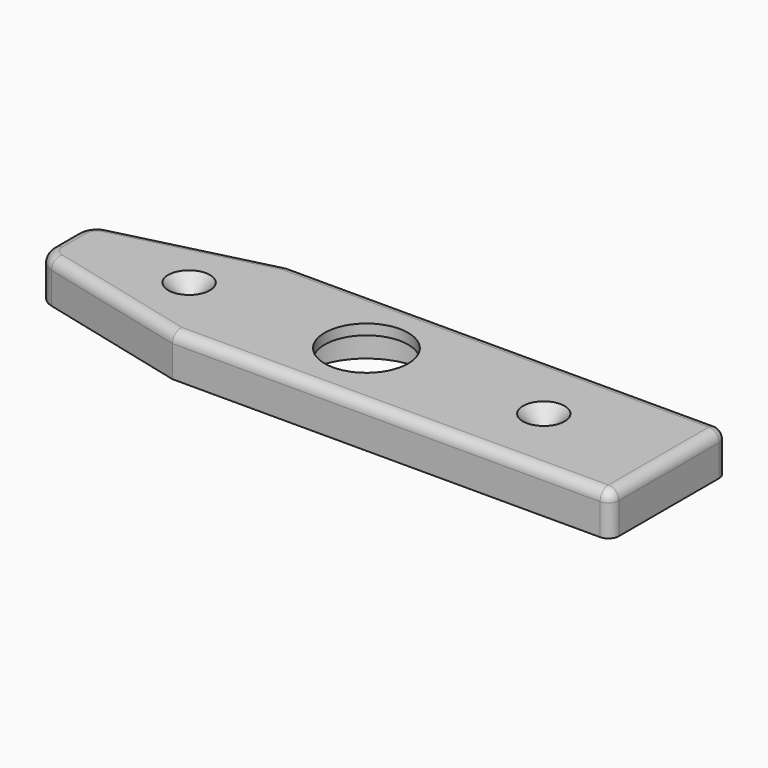
from build123d import *

# Parameters (mm, degrees)
F0_W           = 92.075
F0_H           = 22.225
F0_R           = 6.35
F1_DEPTH       = 6.35
F3_D           = 1.5875
F3_CSINK_D     = 6.35
F3_CSINK_ANGLE = 90
F6_D           = 12.7
F6_CBORE_D     = 19.05
F6_CBORE_DEPTH = 4.7625
F7_SIZE2       = 25.4
F7_SIZE        = 6.35
F8_R           = 3.175
F9_R           = 1.5875


with BuildPart() as f1:
    # F0 (on Top) → F1 (new body)
    with BuildSketch(Plane.XY):
        Rectangle(F0_W, F0_H)
        Circle(F0_R, mode=Mode.SUBTRACT)
    extrude(amount=-F1_DEPTH)

    # F3 (through all)
    with Locations(Plane.XY):
        with Locations((26.9875, 0), (-26.9875, 0)):
            CounterSinkHole(F3_D / 2, F3_CSINK_D / 2, counter_sink_angle=F3_CSINK_ANGLE)

    # F6 (through all)
    with Locations(Plane(origin=(0, 0, -6.35), x_dir=(1, 0, 0), z_dir=(0, 0, -1))):
        with Locations((0, 0)):
            CounterBoreHole(F6_D / 2, F6_CBORE_D / 2, F6_CBORE_DEPTH)

    # F7
    f7_edges = [f1.edges().sort_by_distance(p)[0] for p in [
        (-46.0375, -11.1125, -3.175),
        (-46.0375, 11.1125, -3.175),
    ]]
    f7_side = f1.faces().sort_by_distance((-46.0375, 0, -3.175))[0]
    chamfer(f7_edges, length=F7_SIZE, length2=F7_SIZE2, reference=f7_side)

    # F8
    f8_edges = [f1.edges().sort_by_distance(p)[0] for p in [
        (-46.0375, -4.7625, -3.175),
        (-46.0375, 4.7625, -3.175),
    ]]
    fillet(f8_edges, radius=F8_R)

    # F9
    f9_edges = [f1.edges().sort_by_distance(p)[0] for p in [
        (12.7, -11.1125, 0),
        (46.0375, 0, 0),
        (12.7, 11.1125, 0),
        (-32.135025, -8.238119, 0),
        (-32.135025, 8.238119, 0),
        (-45.365052, 4.237469, 0),
        (-46.0375, 0, 0),
        (-45.365052, -4.237469, 0),
        (46.0375, -11.1125, -3.175),
        (46.0375, 11.1125, -3.175),
    ]]
    fillet(f9_edges, radius=F9_R)


solid = f1.part
